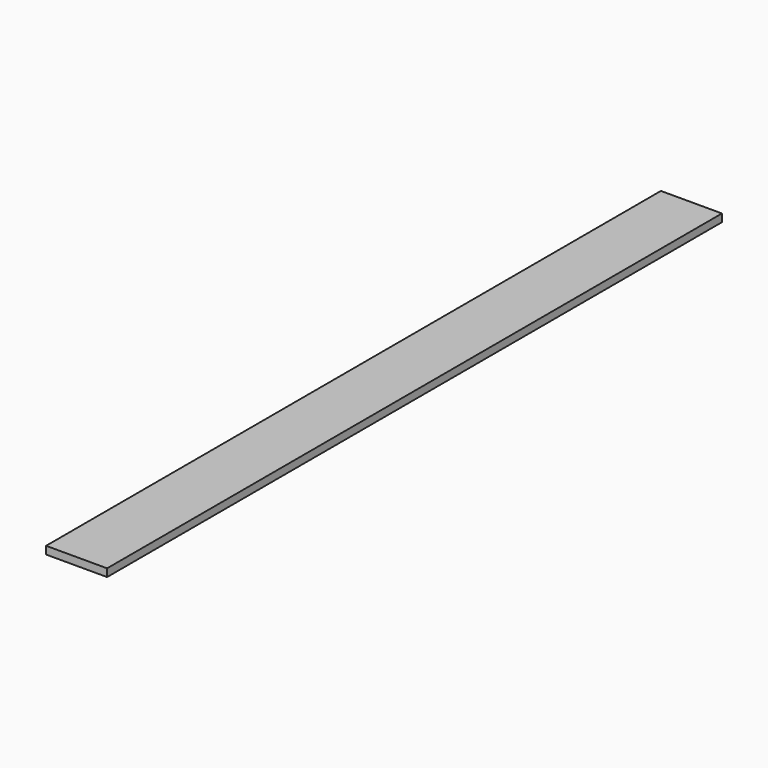
from build123d import *

# Parameters (mm, degrees)
SKETCH_W  = 15.8
SKETCH_H  = 199
PAD_DEPTH = 2


with BuildPart() as part:
    # Sketch → Pad (new body)
    with BuildSketch(Plane.XY):
        Rectangle(SKETCH_W, SKETCH_H)
    extrude(amount=PAD_DEPTH)


solid = part.part
